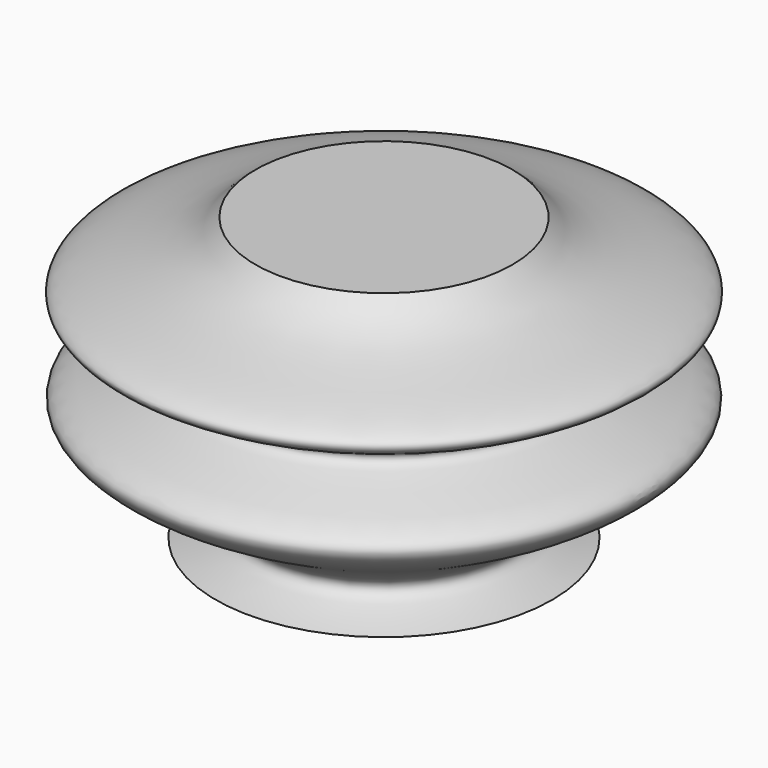
from build123d import *


with BuildPart() as f1:
    # F0 (on Front) → F1 (revolve)
    with BuildSketch(Plane.XZ):
        with BuildLine():
            add(Edge.make_bspline(
                [(-50.3089651465, 36.4372655749), (-49.1310522032, 35.2595319902), (-46.4652813948, 32.5941670938), (-29.0557179586, 29.6811096492), (-51.7010795824, 23.7523511245), (-25.850341506, 20.4347111994), (-55.8829637713, 9.4152226525), (-48.6250352448, 7.207863136), (-46.0758395493, 6.4325742424)],
                knots=[0, 0, 0, 0, 0.1365295267, 0.3089841477, 0.4781094675, 0.6451438958, 0.8753642103, 1, 1, 1, 1], degree=3))
            Line((-50.3089651465, 36.4372655749), (-63.985183835, 36.4372655749))
            Line((-63.985183835, 36.4372655749), (-63.985183835, 6.4325742424))
            Line((-63.985183835, 6.4325742424), (-46.0758395493, 6.4325742424))
        make_face()
    revolve(axis=Axis((-63.985183835, 0, 21.4349199086), (0, 0, -1)))


solid = f1.part
